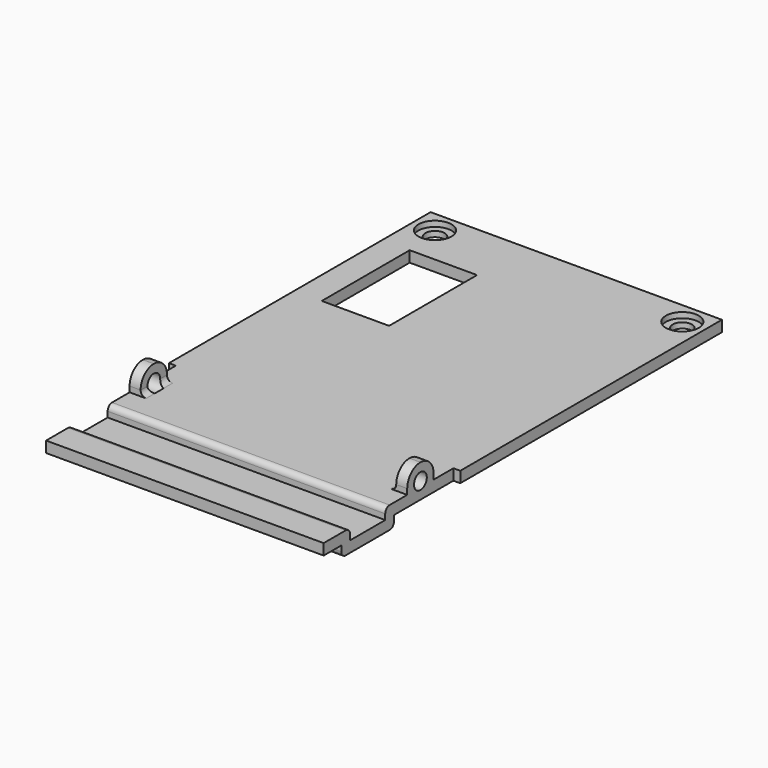
from build123d import *

# Parameters (mm, degrees)
PAD_DEPTH       = 2
SKETCH001_R     = 3
POCKET_DEPTH    = 1
SKETCH002_R     = 1.75
POCKET001_DEPTH = 1
SKETCH003_W     = 2
SKETCH003_H     = 6
PAD001_DEPTH    = 4
SKETCH004_R     = 1.45
POCKET002_DEPTH = 3
SKETCH005_R     = 1.45
POCKET003_DEPTH = 3
FILLET_R        = 2.99
FILLET001_R     = 1
SKETCH006_W     = 12.25
SKETCH006_H     = 20
POCKET004_DEPTH = 2
SKETCH007_W     = 50.5
SKETCH007_H     = 12
PAD002_DEPTH    = 2
SKETCH008_W     = 50.5
SKETCH008_H     = 8
POCKET005_DEPTH = 2
FILLET002_R     = 1


with BuildPart() as part:
    # Sketch → Pad (new body)
    with BuildSketch(Plane.XY):
        Polygon((0, 0), (0, 29.5), (-1.25, 29.5), (-1.25, 89), (51.75, 89), (51.75, 29.5), (50.5, 29.5), (50.5, 0), align=None)
    extrude(amount=PAD_DEPTH)

    # Sketch001 (on Face10 of Pad) → Pocket (cut)
    with BuildSketch(Plane.XY.offset(2)):
        with Locations((2.75, 85)):
            Circle(SKETCH001_R)
        with Locations((47.75, 85)):
            Circle(SKETCH001_R)
    extrude(amount=-POCKET_DEPTH, mode=Mode.SUBTRACT)

    # Sketch002 (on Face13 of Pocket) → Pocket001 (cut)
    with BuildSketch(Plane.XY.offset(1)):
        with Locations((2.75, 85)):
            Circle(SKETCH002_R)
        with Locations((47.75, 85)):
            Circle(SKETCH002_R)
    extrude(amount=-POCKET001_DEPTH, mode=Mode.SUBTRACT)

    # Sketch003 (on Face5 of Pocket001) → Pad001 (join)
    with BuildSketch(Plane.XY.offset(2)):
        with Locations((1, 22)):
            Rectangle(SKETCH003_W, SKETCH003_H)
        with Locations((49.5, 22)):
            Rectangle(SKETCH003_W, SKETCH003_H)
    extrude(amount=PAD001_DEPTH)

    # Sketch004 (on Face6 of Pad001) → Pocket002 (cut)
    with BuildSketch(Plane(origin=(0, 0, 0), x_dir=(0, -1, 0), z_dir=(-1, 0, 0))):
        with Locations((-22, 3)):
            Circle(SKETCH004_R)
    extrude(amount=-POCKET002_DEPTH, mode=Mode.SUBTRACT)

    # Sketch005 (on Face25 of Pocket002) → Pocket003 (cut)
    with BuildSketch(Plane.YZ.offset(50.5)):
        with Locations((22, 3)):
            Circle(SKETCH005_R)
    extrude(amount=-POCKET003_DEPTH, mode=Mode.SUBTRACT)

    # Fillet
    fillet_edges = [part.edges().sort_by_distance(p)[0] for p in [
        (1, 25, 6),
        (1, 19, 6),
        (49.5, 19, 6),
        (49.5, 25, 6),
    ]]
    fillet(fillet_edges, radius=FILLET_R)

    # Fillet001
    fillet001_edges = [part.edges().sort_by_distance(p)[0] for p in [
        (2, 19.975, 2),
        (2, 24.025, 2),
        (48.5, 19.975, 2),
        (48.5, 24.025, 2),
    ]]
    fillet(fillet001_edges, radius=FILLET001_R)

    # Sketch006 (on Face5 of Fillet001) → Pocket004 (cut)
    with BuildSketch(Plane.XY.offset(2)):
        with Locations((9.875, 68)):
            Rectangle(SKETCH006_W, SKETCH006_H)
    extrude(amount=-POCKET004_DEPTH, mode=Mode.SUBTRACT)

    # Sketch007 (on Face32 of Pocket004) → Pad002 (join)
    with BuildSketch(Plane(origin=(0, 0, 0), x_dir=(1, 0, 0), z_dir=(0, 0, -1))):
        with Locations((25.25, -10)):
            Rectangle(SKETCH007_W, SKETCH007_H)
    extrude(amount=PAD002_DEPTH)

    # Sketch008 (on Face5 of Pad002) → Pocket005 (cut)
    with BuildSketch(Plane.XY.offset(2)):
        with Locations((25.25, 10)):
            Rectangle(SKETCH008_W, SKETCH008_H)
    extrude(amount=-POCKET005_DEPTH, mode=Mode.SUBTRACT)

    # Fillet002
    fillet002_edges = [part.edges().sort_by_distance(p)[0] for p in [
        (25.25, 14, 2),
        (25.25, 6, 2),
        (25.25, 16, -2),
        (25.25, 4, -2),
    ]]
    fillet(fillet002_edges, radius=FILLET002_R)


solid = part.part
